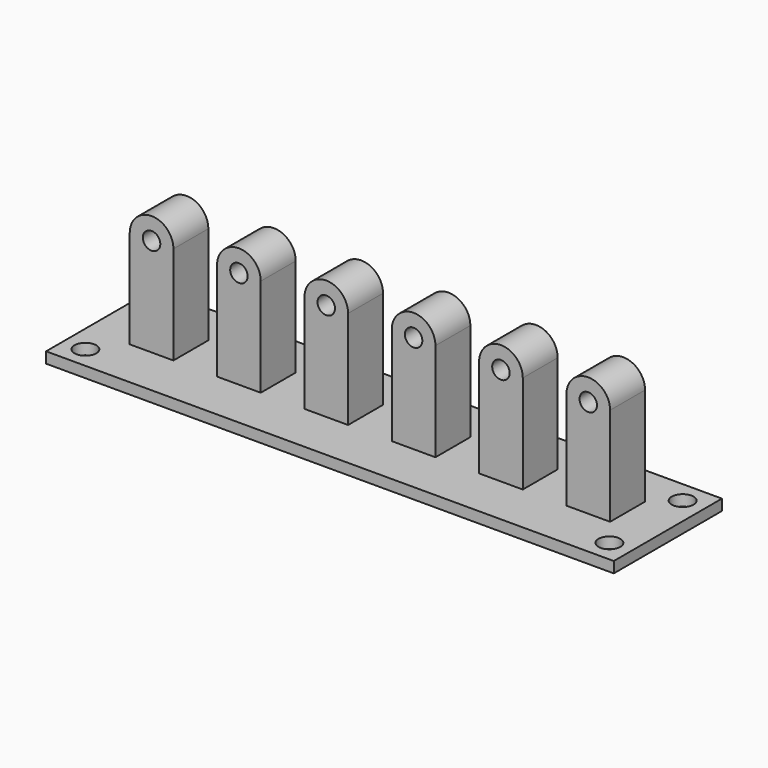
from build123d import *

# Parameters (mm, degrees)
F0_W     = 104
F0_H     = 24.762767
F0_R     = 2
F1_DEPTH = 2
F2_R     = 1.6
F3_DEPTH = 4


with BuildPart() as f1:
    # F0 (on Top) → F1 (new body)
    with BuildSketch(Plane.XY):
        with Locations((0, -0.776007)):
            Rectangle(F0_W, F0_H)
        with Locations((-48, -9.15739)):
            Circle(F0_R, mode=Mode.SUBTRACT)
        with Locations((48, -9.15739)):
            Circle(F0_R, mode=Mode.SUBTRACT)
        with Locations((-48, 7.605377)):
            Circle(F0_R, mode=Mode.SUBTRACT)
        with Locations((48, 7.605377)):
            Circle(F0_R, mode=Mode.SUBTRACT)
    extrude(amount=F1_DEPTH)

    # F2 (on Front) → F3 (join, symmetric)
    with BuildSketch(Plane.XZ):
        with BuildLine():
            Line((-28, 20), (-28, 0))
            Line((-28, 0), (-20, 0))
            Line((-20, 0), (-20, 20))
            ThreePointArc((-20, 20), (-24, 16), (-28, 20))
        make_face()
        with BuildLine():
            ThreePointArc((-20, 20), (-24, 24), (-28, 20))
            ThreePointArc((-28, 20), (-24, 16), (-20, 20))
        make_face()
        with Locations((-24, 20)):
            Circle(F2_R, mode=Mode.SUBTRACT)
        with BuildLine():
            Line((20, 20), (20, 0))
            Line((20, 0), (28, 0))
            Line((28, 0), (28, 20))
            ThreePointArc((28, 20), (24, 16), (20, 20))
        make_face()
        with BuildLine():
            ThreePointArc((28, 20), (24, 24), (20, 20))
            ThreePointArc((20, 20), (24, 16), (28, 20))
        make_face()
        with Locations((24, 20)):
            Circle(F2_R, mode=Mode.SUBTRACT)
        with BuildLine():
            Line((-44, 20), (-44, 0))
            Line((-44, 0), (-36, 0))
            Line((-36, 0), (-36, 20))
            ThreePointArc((-36, 20), (-40, 16), (-44, 20))
        make_face()
        with BuildLine():
            ThreePointArc((-36, 20), (-40, 24), (-44, 20))
            ThreePointArc((-44, 20), (-40, 16), (-36, 20))
        make_face()
        with Locations((-40, 20)):
            Circle(F2_R, mode=Mode.SUBTRACT)
        with BuildLine():
            Line((-12, 20), (-12, 0))
            Line((-12, 0), (-4, 0))
            Line((-4, 0), (-4, 20))
            ThreePointArc((-4, 20), (-8, 16), (-12, 20))
        make_face()
        with BuildLine():
            ThreePointArc((-4, 20), (-8, 24), (-12, 20))
            ThreePointArc((-12, 20), (-8, 16), (-4, 20))
        make_face()
        with Locations((-8, 20)):
            Circle(F2_R, mode=Mode.SUBTRACT)
        with BuildLine():
            Line((4, 20), (4, 0))
            Line((4, 0), (12, 0))
            Line((12, 0), (12, 20))
            ThreePointArc((12, 20), (8, 16), (4, 20))
        make_face()
        with BuildLine():
            ThreePointArc((12, 20), (8, 24), (4, 20))
            ThreePointArc((4, 20), (8, 16), (12, 20))
        make_face()
        with Locations((8, 20)):
            Circle(F2_R, mode=Mode.SUBTRACT)
        with BuildLine():
            Line((36, 20), (36, 0))
            Line((36, 0), (44, 0))
            Line((44, 0), (44, 20))
            ThreePointArc((44, 20), (40, 16), (36, 20))
        make_face()
        with BuildLine():
            ThreePointArc((44, 20), (40, 24), (36, 20))
            ThreePointArc((36, 20), (40, 16), (44, 20))
        make_face()
        with Locations((40, 20)):
            Circle(F2_R, mode=Mode.SUBTRACT)
    extrude(amount=F3_DEPTH, both=True)


solid = f1.part
